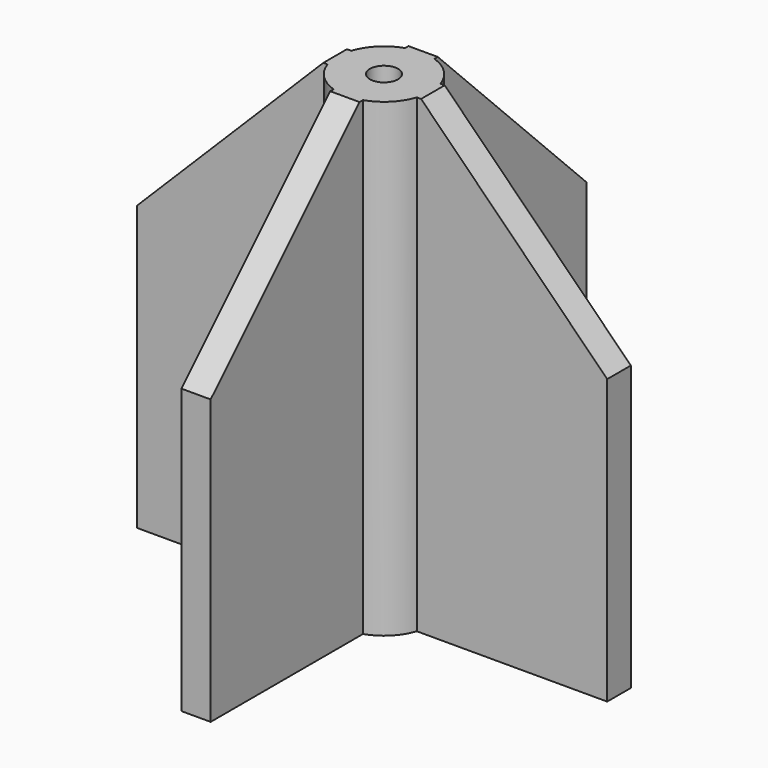
from build123d import *

# Parameters (mm, degrees)
F0_R     = 0.191188
F1_DEPTH = 6.35
F2_SIZE  = 2.5146


with BuildPart() as f1:
    # F0 (on Top) → F1 (new body)
    with BuildSketch(Plane.XY):
        with BuildLine():
            Line((0.602884, -0.19939), (3.175, -0.19939))
            Line((3.175, -0.19939), (3.175, 0.19939))
            Line((3.175, 0.19939), (0.602884, 0.19939))
            ThreePointArc((0.602884, 0.19939), (0.44854, 0.449485), (0.19812, 0.603302))
            Line((0.19812, 0.603302), (0.19812, 3.175))
            Line((0.19812, 3.175), (-0.19812, 3.175))
            Line((-0.19812, 3.175), (-0.19812, 0.603302))
            ThreePointArc((-0.19812, 0.603302), (-0.44854, 0.449485), (-0.602884, 0.19939))
            Line((-0.602884, 0.19939), (-3.175, 0.19939))
            Line((-3.175, 0.19939), (-3.175, -0.19939))
            Line((-3.175, -0.19939), (-0.602884, -0.19939))
            ThreePointArc((-0.602884, -0.19939), (-0.44854, -0.449485), (-0.19812, -0.603302))
            Line((-0.19812, -0.603302), (-0.19812, -3.175))
            Line((-0.19812, -3.175), (0.19812, -3.175))
            Line((0.19812, -3.175), (0.19812, -0.603302))
            ThreePointArc((0.19812, -0.603302), (0.44854, -0.449485), (0.602884, -0.19939))
        make_face()
        Circle(F0_R, mode=Mode.SUBTRACT)
    extrude(amount=F1_DEPTH)

    # F2
    f2_edges = [f1.edges().sort_by_distance(p)[0] for p in [
        (0, -3.175, 6.35),
        (-3.175, 0, 6.35),
        (3.175, 0, 6.35),
        (0, 3.175, 6.35),
    ]]
    chamfer(f2_edges, length=F2_SIZE)


solid = f1.part
